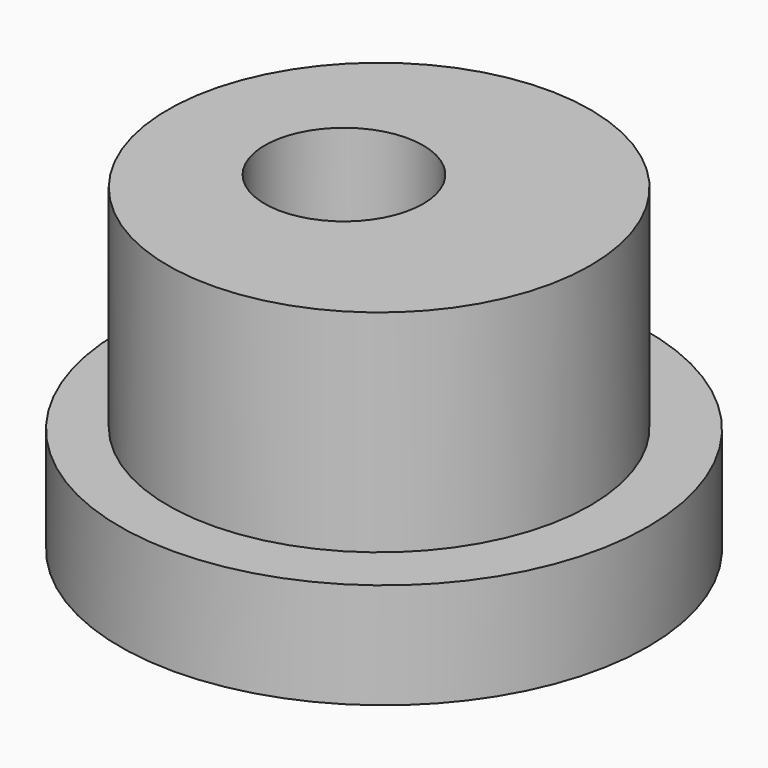
from build123d import *

# Parameters (mm, degrees)
F0_R     = 6
F0_R_2   = 2.25
F1_DEPTH = 6
F2_R     = 7.5
F2_R_2   = 6
F3_DEPTH = 3


with BuildPart() as f1:
    # F0 (on Top) → F1 (new body)
    with BuildSketch(Plane.XY):
        with Locations((1, 0)):
            Circle(F0_R)
        Circle(F0_R_2, mode=Mode.SUBTRACT)
    extrude(amount=F1_DEPTH)

    # F2 (on face) + F0 (on Top) → F3 (join)
    with BuildSketch(Plane.XY):
        with Locations((1.137572, 0)):
            Circle(F2_R)
        with Locations((1, 0)):
            Circle(F2_R_2, mode=Mode.SUBTRACT)
    with BuildSketch(Plane.XY):
        with Locations((1, 0)):
            Circle(F0_R)
        Circle(F0_R_2, mode=Mode.SUBTRACT)
    extrude(amount=-F3_DEPTH)


solid = f1.part
